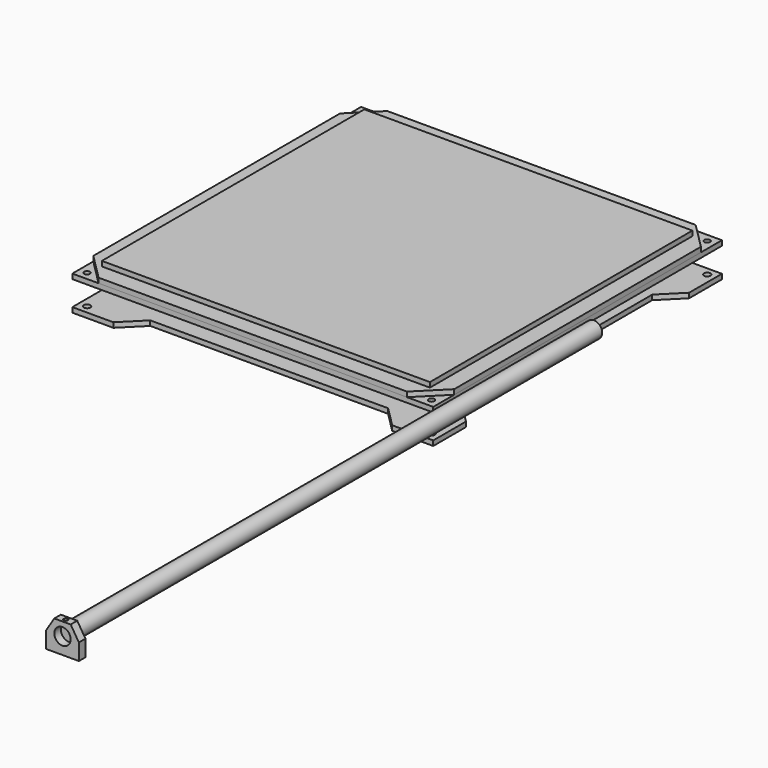
from build123d import *

# Parameters (mm, degrees)
F1_DEPTH  = 3
F2_W      = 200
F2_H      = 200
F3_DEPTH  = 3
F4_W      = 220
F4_H      = 220
F4_R      = 1.75
F5_DEPTH  = 3
F7_R      = 2
F8_DEPTH  = 3
F9_R      = 5
F10_DEPTH = 400
F11_R     = 5
F12_DEPTH = 5
F14_D     = 2.5
F14_DEPTH = 5
F14_TIP   = 0.7510757738


with BuildPart() as f1:
    # F0 (on Top) → F1 (new body)
    with BuildSketch(Plane.XY):
        Polygon((110, -94), (110, 0), (110, 94), (94, 110), (0, 110), (-94, 110), (-110, 94), (-110, 0), (-110, -94), (-94, -110), (0, -110), (94, -110), align=None)
    extrude(amount=F1_DEPTH)


with BuildPart() as f3:
    # F2 (on face) → F3 (new body)
    with BuildSketch(Plane.XY.offset(3)):
        Rectangle(F2_W, F2_H)
    extrude(amount=F3_DEPTH)


with BuildPart() as f5:
    # F4 (on face) → F5 (new body)
    with BuildSketch(Plane.XY):
        Rectangle(F4_W, F4_H)
        with Locations((-105, -105)):
            Circle(F4_R, mode=Mode.SUBTRACT)
        with Locations((105, -105)):
            Circle(F4_R, mode=Mode.SUBTRACT)
        with Locations((-105, 105)):
            Circle(F4_R, mode=Mode.SUBTRACT)
        with Locations((105, 105)):
            Circle(F4_R, mode=Mode.SUBTRACT)
    extrude(amount=-F5_DEPTH)


with BuildPart() as f8:
    # F7 (on offset) → F8 (new body)
    with BuildSketch(Plane(origin=(0, 0, -18), x_dir=(1, 0, 0), z_dir=(0, 0, -1))):
        Polygon((72.5, 97.5), (0, 97.5), (-72.5, 97.5), (-85, 110), (-110, 110), (-110, 85), (-97.5, 72.5), (-97.5, 3.4057122501), (-97.5, -3.4057122501), (-97.5, -72.5), (-110, -85), (-110, -110), (-85, -110), (-72.5, -97.5), (0, -97.5), (72.5, -97.5), (85, -110), (110, -110), (110, -85), (97.5, -72.5), (97.5, -3.4057122501), (97.5, 3.4057122501), (97.5, 72.5), (110, 85), (110, 110), (85, 110), align=None)
        with Locations((-105, -105)):
            Circle(F7_R, mode=Mode.SUBTRACT)
        with Locations((-87, -59)):
            Circle(F7_R, mode=Mode.SUBTRACT)
        with Locations((-63, -59)):
            Circle(F7_R, mode=Mode.SUBTRACT)
        with Locations((-87, -41)):
            Circle(F7_R, mode=Mode.SUBTRACT)
        with Locations((-63, -41)):
            Circle(F7_R, mode=Mode.SUBTRACT)
        with Locations((105, -105)):
            Circle(F7_R, mode=Mode.SUBTRACT)
        with Locations((63, -9)):
            Circle(F7_R, mode=Mode.SUBTRACT)
        with Locations((87, -9)):
            Circle(F7_R, mode=Mode.SUBTRACT)
        with Locations((-87, 41)):
            Circle(F7_R, mode=Mode.SUBTRACT)
        with Locations((-63, 41)):
            Circle(F7_R, mode=Mode.SUBTRACT)
        with Locations((-87, 59)):
            Circle(F7_R, mode=Mode.SUBTRACT)
        with Locations((-63, 59)):
            Circle(F7_R, mode=Mode.SUBTRACT)
        with Locations((-105, 105)):
            Circle(F7_R, mode=Mode.SUBTRACT)
        with Locations((63, 9)):
            Circle(F7_R, mode=Mode.SUBTRACT)
        with Locations((87, 9)):
            Circle(F7_R, mode=Mode.SUBTRACT)
        with Locations((105, 105)):
            Circle(F7_R, mode=Mode.SUBTRACT)
    extrude(amount=F8_DEPTH)


with BuildPart() as f10:
    # F9 (on Front) → F10 (new body)
    with BuildSketch(Plane.XZ):
        with Locations((120, 0)):
            Circle(F9_R)
    extrude(amount=F10_DEPTH)


with BuildPart() as f12:
    # F11 (on face) → F12 (new body)
    with BuildSketch(Plane.XZ.offset(400)):
        Polygon((110, 0), (110, -10), (130, -10), (130, 0), (125, 8), (115, 8), align=None)
        with Locations((120, 0)):
            Circle(F11_R, mode=Mode.SUBTRACT)
    extrude(amount=F12_DEPTH)

    # F14
    with Locations(Plane.XY.offset(8)):
        with Locations((120, -402.5)):
            Hole(F14_D / 2, depth=F14_DEPTH)
            with Locations((0, 0, -(F14_DEPTH + F14_TIP / 2))):  # 118° drill point
                Cone(0, F14_D / 2, F14_TIP, mode=Mode.SUBTRACT)


solid = Compound([f1.part, f3.part, f5.part, f8.part, f10.part, f12.part])
